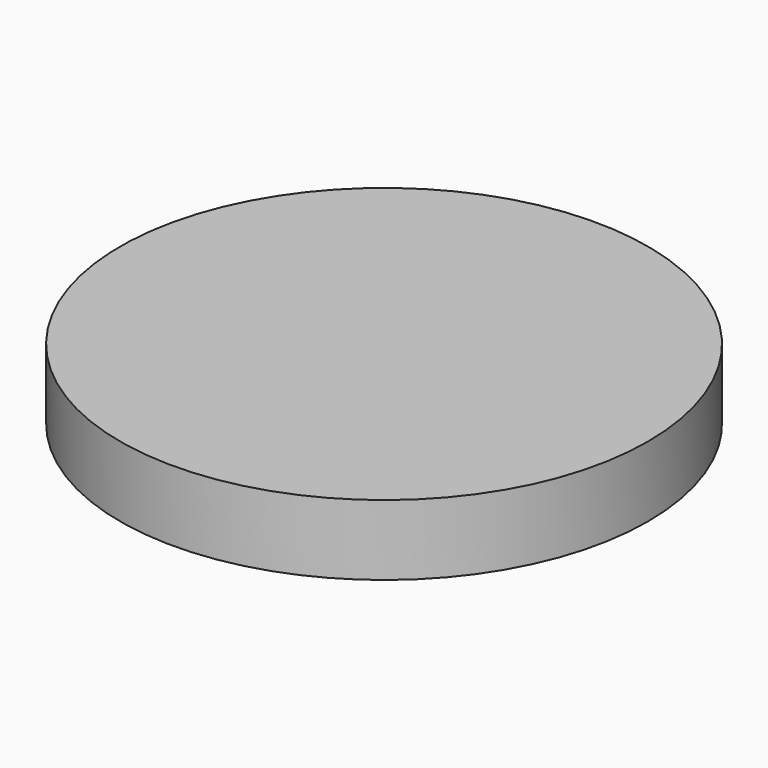
from build123d import *

# Parameters (mm, degrees)
F0_R     = 9.525
F1_DEPTH = 2.54
F3_DEPTH = 1.905


with BuildPart() as f1:
    # F0 (on Top) → F1 (new body)
    with BuildSketch(Plane.XY):
        Circle(F0_R)
    extrude(amount=F1_DEPTH)

    # F2 (on Top) → F3 (cut)
    with BuildSketch(Plane.XY):
        Polygon((1.143, 4.699), (-1.143, 4.699), (-1.143, 1.143), (-4.699, 1.143), (-4.699, -1.143), (-1.143, -1.143), (-1.143, -4.699), (1.143, -4.699), (1.143, -1.143), (4.699, -1.143), (4.699, 1.143), (1.143, 1.143), align=None)
    extrude(amount=F3_DEPTH, mode=Mode.SUBTRACT)


solid = f1.part
